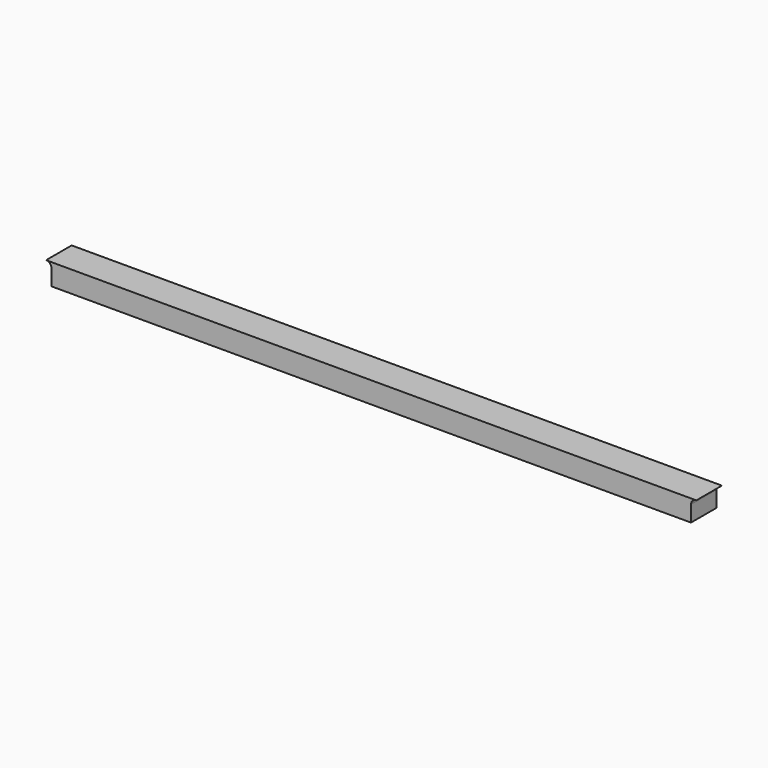
from build123d import *

# Parameters (mm, degrees)
F1_DEPTH = 19.05


with BuildPart() as f1:
    # F0 (on Front) → F1 (new body)
    with BuildSketch(Plane.XZ):
        with BuildLine():
            ThreePointArc((115.38966, 3.175), (116.319596, 5.420064), (118.56466, 6.35))
            Line((118.56466, 6.35), (-268.78534, 6.35))
            ThreePointArc((-268.78534, 6.35), (-266.540276, 5.420064), (-265.61034, 3.175))
            Line((-265.61034, 3.175), (-265.61034, -6.35))
            Line((-265.61034, -6.35), (115.38966, -6.35))
            Line((115.38966, -6.35), (115.38966, 3.175))
        make_face()
    extrude(amount=F1_DEPTH)


solid = f1.part
